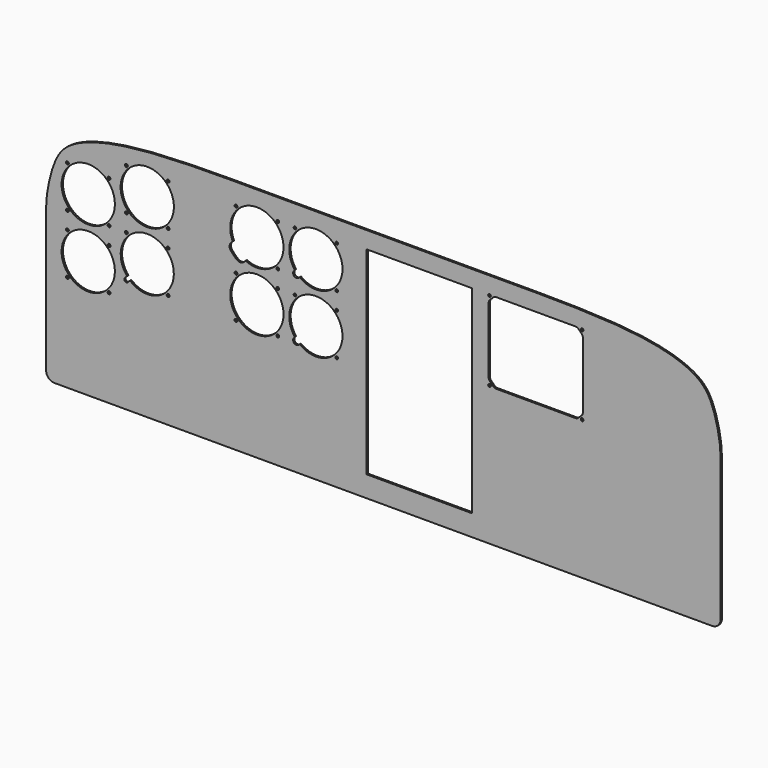
from build123d import *

# Parameters (mm, degrees)
F1_DEPTH  = 2.54
F2_R      = 1.9812
F3_DEPTH  = 2.5410001
F4_R      = 2.15265
F5_DEPTH  = 2.5410001
F6_W      = 158.75
F6_H      = 298.45
F7_DEPTH  = 2.5410001
F8_R      = 40.132
F8_R_2    = 2.15265
F9_DEPTH  = 2.5410001
F10_R     = 2.15265
F11_DEPTH = 2.5410001
F12_R     = 2.032
F13_DEPTH = 2.5410001


with BuildPart() as f1:
    # F0 (on Front) → F1 (new body)
    with BuildSketch(Plane.XZ):
        with BuildLine():
            ThreePointArc((0, 12.7), (3.7197438789, 3.7197438789), (12.7, 0))
            Line((12.7, 0), (1003.3, 0))
            ThreePointArc((1003.3, 0), (1012.2802561211, 3.7197438789), (1016, 12.7))
            Line((1016, 12.7), (1016, 228.6))
            add(Edge.make_bspline(
                [(1016, 228.6), (1016, 246.4777903282), (1006.5101076302, 295.0928833115), (979.3913885797, 329.9411530608), (895.9634014896, 353.7815438771), (790.3547549462, 355.4824667466), (739.0872439323, 355.6)],
                knots=[0, 0, 0, 0, 0.210123605, 0.3766229282, 0.6276961951, 0.9012892439, 0.9012892439, 0.9012892439, 0.9012892439], degree=3))
            Line((739.0872439323, 355.6), (699.4282730934, 355.6))
            add(Edge.make_bspline(
                [(699.4282730934, 355.6), (694.8087936185, 355.5970051394), (690.2615404764, 355.5959211809), (685.8, 355.6)],
                knots=[0.9737673181, 0.9737673181, 0.9737673181, 0.9737673181, 1, 1, 1, 1], degree=3))
            Line((685.8, 355.6), (330.2, 355.6))
            add(Edge.make_bspline(
                [(316.5717269066, 355.6), (321.1912063815, 355.5970051394), (325.7384595236, 355.5959211809), (330.2, 355.6)],
                knots=[0.9737673181, 0.9737673181, 0.9737673181, 0.9737673181, 1, 1, 1, 1], degree=3))
            Line((316.5717269066, 355.6), (276.9127560677, 355.6))
            add(Edge.make_bspline(
                [(0, 228.6), (0, 246.4777903282), (9.4898923698, 295.0928833115), (36.6086114203, 329.9411530608), (120.0365985104, 353.7815438771), (225.6452450538, 355.4824667466), (276.9127560677, 355.6)],
                knots=[0, 0, 0, 0, 0.210123605, 0.3766229282, 0.6276961951, 0.9012892439, 0.9012892439, 0.9012892439, 0.9012892439], degree=3))
            Line((0, 228.6), (0, 12.7))
        make_face()
    extrude(amount=F1_DEPTH)

    # F2 (on face) → F3 (cut, through all)
    with BuildSketch(Plane.XZ.offset(2.54)):
        with BuildLine():
            Line((380.7402827045, 259.2381172955), (381.8891012718, 260.3869358627))
            ThreePointArc((381.8891012718, 260.3869358627), (434.7416883181, 320.4416883181), (374.6869358627, 267.5891012718))
            Line((374.6869358627, 267.5891012718), (373.5381172955, 266.4402827045))
            ThreePointArc((373.5381172955, 266.4402827045), (373.5381172955, 259.2381172955), (380.7402827045, 259.2381172955))
        make_face()
        with Locations((437.896, 323.596)):
            Circle(F2_R)
        with Locations((374.904, 323.596)):
            Circle(F2_R)
        with Locations((437.896, 260.604)):
            Circle(F2_R)
        with BuildLine():
            Line((380.7402827045, 170.3381172955), (381.8891012718, 171.4869358627))
            ThreePointArc((381.8891012718, 171.4869358627), (434.7416883181, 231.5416883181), (374.6869358627, 178.6891012718))
            Line((374.6869358627, 178.6891012718), (373.5381172955, 177.5402827045))
            ThreePointArc((373.5381172955, 177.5402827045), (373.5381172955, 170.3381172955), (380.7402827045, 170.3381172955))
        make_face()
        with Locations((437.896, 234.696)):
            Circle(F2_R)
        with Locations((374.904, 234.696)):
            Circle(F2_R)
        with Locations((437.896, 171.704)):
            Circle(F2_R)
    extrude(amount=-F3_DEPTH, mode=Mode.SUBTRACT)

    # F4 (on face) → F5 (cut, through all)
    with BuildSketch(Plane.XZ.offset(2.54)):
        with BuildLine():
            Line((298.2423460579, 253.4449928364), (300.529886162, 255.7325329405))
            ThreePointArc((300.529886162, 255.7325329405), (345.8776093426, 320.4776093426), (281.1325329405, 275.129886162))
            Line((281.1325329405, 275.129886162), (278.8449928364, 272.8423460579))
            ThreePointArc((278.8449928364, 272.8423460579), (276.4917154765, 268.07677043), (277.520281009, 262.8623022555))
            ThreePointArc((277.520281009, 262.8623022555), (282.4770011278, 257.0770011278), (288.2623022555, 252.120281009))
            ThreePointArc((288.2623022555, 252.120281009), (293.47677043, 251.0917154765), (298.2423460579, 253.4449928364))
        make_face()
        with Locations((286.0691035763, 323.5308964237)):
            Circle(F4_R)
        with Locations((348.9308964237, 323.5308964237)):
            Circle(F4_R)
        with Locations((348.9308964237, 260.6691035763)):
            Circle(F4_R)
    extrude(amount=-F5_DEPTH, mode=Mode.SUBTRACT)

    # F6 (on face) → F7 (cut, through all)
    with BuildSketch(Plane.XZ.offset(2.54)):
        with Locations((561.975, 180.975)):
            Rectangle(F6_W, F6_H)
    extrude(amount=-F7_DEPTH, mode=Mode.SUBTRACT)

    # F8 (on face) → F9 (cut, through all)
    with BuildSketch(Plane.XZ.offset(2.54)):
        with Locations((152.4, 292.1)):
            Circle(F8_R)
        with Locations((120.9691035763, 323.5308964237)):
            Circle(F8_R_2)
        with Locations((183.8308964237, 323.5308964237)):
            Circle(F8_R_2)
        with Locations((183.8308964237, 260.6691035763)):
            Circle(F8_R_2)
        with Locations((120.9691035763, 260.6691035763)):
            Circle(F8_R_2)
        with Locations((63.5, 266.7)):
            Circle(F8_R)
        with Locations((32.0691035763, 298.1308964237)):
            Circle(F8_R_2)
        with Locations((94.9308964237, 298.1308964237)):
            Circle(F8_R_2)
        with Locations((94.9308964237, 235.2691035763)):
            Circle(F8_R_2)
        with Locations((32.0691035763, 235.2691035763)):
            Circle(F8_R_2)
        with Locations((63.5, 177.8)):
            Circle(F8_R)
        with Locations((32.0691035763, 209.2308964237)):
            Circle(F8_R_2)
        with Locations((94.9308964237, 209.2308964237)):
            Circle(F8_R_2)
        with Locations((94.9308964237, 146.3691035763)):
            Circle(F8_R_2)
        with Locations((32.0691035763, 146.3691035763)):
            Circle(F8_R_2)
        with Locations((317.5, 203.2)):
            Circle(F8_R)
        with Locations((286.0691035763, 234.6308964237)):
            Circle(F8_R_2)
        with Locations((348.9308964237, 234.6308964237)):
            Circle(F8_R_2)
        with Locations((348.9308964237, 171.7691035763)):
            Circle(F8_R_2)
        with Locations((286.0691035763, 171.7691035763)):
            Circle(F8_R_2)
    extrude(amount=-F9_DEPTH, mode=Mode.SUBTRACT)

    # F10 (on face) → F11 (cut, through all)
    with BuildSketch(Plane.XZ.offset(2.54)):
        with BuildLine():
            Line((123.2141676065, 169.524039546), (126.4464878251, 172.7563597645))
            ThreePointArc((126.4464878251, 172.7563597645), (180.6878067814, 231.4878067814), (121.9563597645, 177.2464878251))
            Line((121.9563597645, 177.2464878251), (118.724039546, 174.0141676065))
            ThreePointArc((118.724039546, 174.0141676065), (118.724039546, 169.524039546), (123.2141676065, 169.524039546))
        make_face()
        with Locations((120.9691035763, 234.6308964237)):
            Circle(F10_R)
        with Locations((183.8308964237, 234.6308964237)):
            Circle(F10_R)
        with Locations((183.8308964237, 171.7691035763)):
            Circle(F10_R)
    extrude(amount=-F11_DEPTH, mode=Mode.SUBTRACT)

    # F12 (on face) → F13 (cut, through all)
    with BuildSketch(Plane.XZ.offset(2.54)):
        with BuildLine():
            ThreePointArc((673.3747535672, 210.4700719395), (675.4348418322, 209.0935649686), (677.8648816278, 208.6102))
            Line((677.8648816278, 208.6102), (797.4687183722, 208.6102))
            ThreePointArc((797.4687183722, 208.6102), (799.8987581678, 209.0935649686), (801.9588464328, 210.4700719395))
            Line((801.9588464328, 210.4700719395), (806.7237280605, 215.2349535672))
            ThreePointArc((806.7237280605, 215.2349535672), (808.1002350314, 217.2950418322), (808.5836, 219.7250816278))
            Line((808.5836, 219.7250816278), (808.5836, 319.0851183722))
            ThreePointArc((808.5836, 319.0851183722), (808.1002350314, 321.5151581678), (806.7237280605, 323.5752464328))
            Line((806.7237280605, 323.5752464328), (801.9588464328, 328.3401280605))
            ThreePointArc((801.9588464328, 328.3401280605), (799.8987581678, 329.7166350314), (797.4687183722, 330.2))
            Line((797.4687183722, 330.2), (677.8648816278, 330.2))
            ThreePointArc((677.8648816278, 330.2), (675.4348418322, 329.7166350314), (673.3747535672, 328.3401280605))
            Line((673.3747535672, 328.3401280605), (668.6098719395, 323.5752464328))
            ThreePointArc((668.6098719395, 323.5752464328), (667.2333649686, 321.5151581678), (666.75, 319.0851183722))
            Line((666.75, 319.0851183722), (666.75, 219.7250816278))
            ThreePointArc((666.75, 219.7250816278), (667.2333649686, 217.2950418322), (668.6098719395, 215.2349535672))
            Line((668.6098719395, 215.2349535672), (673.3747535672, 210.4700719395))
        make_face()
        with Locations((667.9031046477, 209.7633046477)):
            Circle(F12_R)
        with Locations((807.4304953523, 209.7633046477)):
            Circle(F12_R)
        with Locations((807.4362529289, 329.0526529289)):
            Circle(F12_R)
        with Locations((667.9031046477, 329.0468953523)):
            Circle(F12_R)
    extrude(amount=-F13_DEPTH, mode=Mode.SUBTRACT)


solid = f1.part
